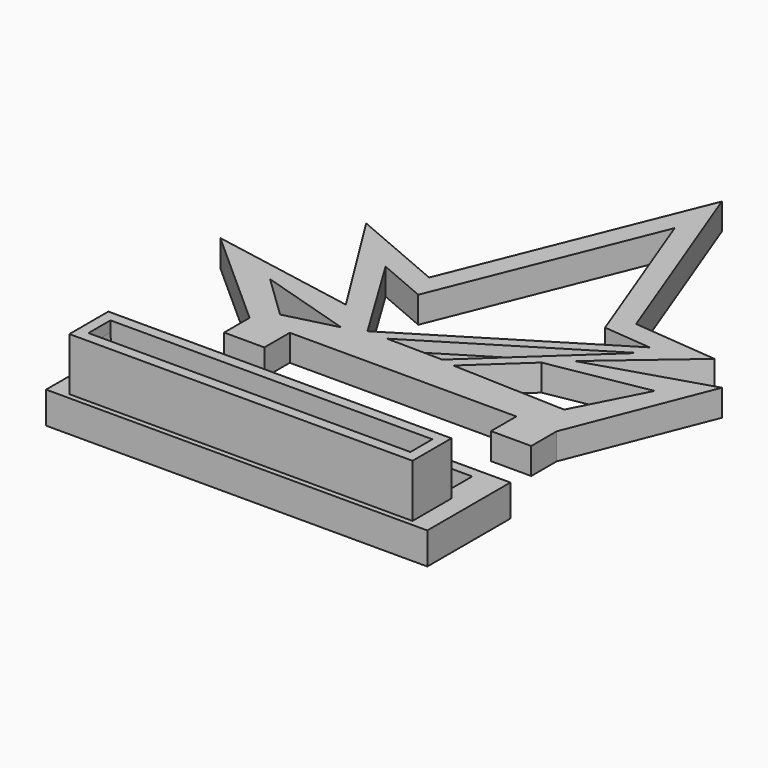
from build123d import *

# Parameters (mm, degrees)
F0_W      = 3.8
F0_H      = 3
F1_DEPTH  = 2.5
F2_W      = 36
F2_H      = 9.8
F3_DEPTH  = 3
F4_W      = 5.2
F4_H      = 3.2
F5_DEPTH  = 25
F6_W      = 32.4
F6_H      = 4.6
F6_W_2    = 30.4
F6_H_2    = 2.6
F7_DEPTH  = 5
F8_DEPTH  = 1
F9_R      = 5
F11_DEPTH = 1


with BuildPart() as f1:
    # F0 (on Top) → F1 (new body)
    with BuildSketch(Plane.XY):
        Polygon((-23.693, 8.612575), (-14.039942, 0), (-10.239942, 0), (11.160058, 0), (14.960058, 0), (20.123731, 13.051745), (8.994607, 9.597098), (16.826606, 16.309944), (8.827872, 17.042117), (1.543192, 36.265995), (-7.726343, 13.299686), (-16.753706, 17.161402), (-9.817263, 6.082774), align=None)
        Polygon((-16.717711, 5.771867), (-7.826785, 3.043432), (-12.61339, 1.818523), align=None, mode=Mode.SUBTRACT)
        Polygon((2.446211, 3.444351), (7.223333, 7.875025), (16.571729, 9.547895), (13.225986, 3.053221), align=None, mode=Mode.SUBTRACT)
        Polygon((-5.918919, 3.769303), (-11.326318, 12.664368), (-6.635851, 10.657885), (1.48446, 30.776861), (7.400632, 15.164399), (11.938927, 14.748982), align=None, mode=Mode.SUBTRACT)
        with Locations((-12.139942, -1.5)):
            Rectangle(F0_W, F0_H)
        with Locations((13.060058, -1.5)):
            Rectangle(F0_W, F0_H)
    extrude(amount=F1_DEPTH)

    # F10 (on face) → F11 (cut)
    with BuildSketch(Plane.XY.offset(2.5)):
        Polygon((11.819168, 13.501456), (-4.055955, 3.74083), (1.217624, 3.668761), align=None)
    extrude(amount=-F11_DEPTH, mode=Mode.SUBTRACT)


with BuildPart() as f3:
    # F2 (on Top) → F3 (new body)
    with BuildSketch(Plane.XY):
        with Locations((0, -14.164851)):
            Rectangle(F2_W, F2_H)
    extrude(amount=F3_DEPTH)

    # F4 (on face) → F5 (cut)
    with BuildSketch(Plane.XY.offset(3)):
        with Locations((-12.6, -11.864851)):
            Rectangle(F4_W, F4_H)
        with Locations((12.6, -11.864851)):
            Rectangle(F4_W, F4_H)
    extrude(amount=-F5_DEPTH, mode=Mode.SUBTRACT)

    # F6 (on face) → F7 (join)
    with BuildSketch(Plane.XY.offset(3)):
        with Locations((0, -16.264851)):
            Rectangle(F6_W, F6_H)
        with Locations((0, -16.264851)):
            Rectangle(F6_W_2, F6_H_2, mode=Mode.SUBTRACT)
    extrude(amount=F7_DEPTH)

    # F6 (on face) → F8 (cut)
    with BuildSketch(Plane.XY.offset(3)):
        with Locations((0, -16.264851)):
            Rectangle(F6_W_2, F6_H_2)
    extrude(amount=-F8_DEPTH, mode=Mode.SUBTRACT)

    # F9
    f9_edges = [f3.edges().sort_by_distance(p)[0] for p in [
        (-15.2, -16.264851, 2),
        (15.2, -16.264851, 2),
    ]]
    fillet(f9_edges, radius=F9_R)


solid = Compound([f1.part, f3.part])
